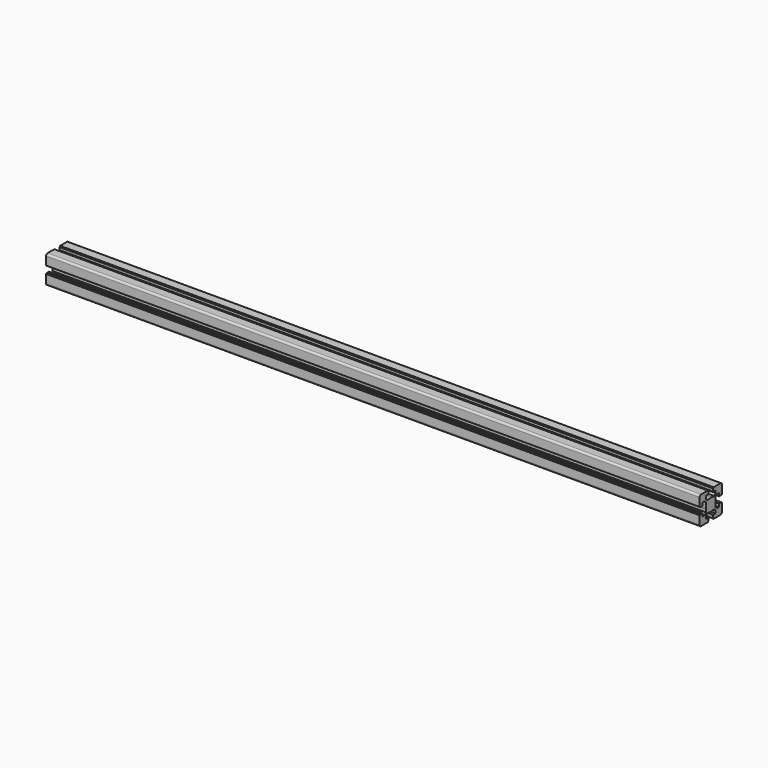
from build123d import *

# Parameters (mm, degrees)
F1_DEPTH = 1054.1


with BuildPart() as f1:
    # F0 (on Right) → F1 (new body)
    with BuildSketch(Plane.YZ):
        with BuildLine():
            Line((-20.088481, -9.788837), (-20.088481, -10.288837))
            Line((-20.088481, -10.288837), (-21.28859, -10.288837))
            ThreePointArc((-21.28859, -10.288837), (-21.500722, -10.376705), (-21.58859, -10.588837))
            Line((-21.58859, -10.588837), (-21.58859, -23.988949))
            ThreePointArc((-21.58859, -23.988949), (-20.70991, -26.11027), (-18.58859, -26.988949))
            Line((-18.58859, -26.988949), (-5.188544, -26.988949))
            ThreePointArc((-5.188544, -26.988949), (-4.976411, -26.901081), (-4.888544, -26.688949))
            Line((-4.888544, -26.688949), (-4.888544, -25.488841))
            Line((-4.888544, -25.488841), (-4.388544, -25.488841))
            ThreePointArc((-4.388544, -25.488841), (-4.176411, -25.400973), (-4.088544, -25.188841))
            Line((-4.088544, -25.188841), (-4.088544, -21.288841))
            ThreePointArc((-4.088544, -21.288841), (-4.176411, -21.076709), (-4.388544, -20.988841))
            Line((-4.388544, -20.988841), (-9.138663, -20.988841))
            Line((-9.138663, -20.988841), (-9.138663, -16.881665))
            Line((-9.138663, -16.881665), (-6.245729, -13.988731))
            Line((-6.245729, -13.988731), (-2.211433, -13.988731))
            ThreePointArc((-2.211433, -13.988731), (-0.669869, -14.363044), (0.91149, -14.48887))
            Line((0.91149, -14.48887), (0.91149, -4.48887))
            Line((0.91149, -4.48887), (-9.08851, -4.48887))
            ThreePointArc((-9.08851, -4.48887), (-8.962684, -6.070229), (-8.588371, -7.611793))
            Line((-8.588371, -7.611793), (-8.588371, -11.646022))
            Line((-8.588371, -11.646022), (-11.481305, -14.538956))
            Line((-11.481305, -14.538956), (-15.588481, -14.538956))
            Line((-15.588481, -14.538956), (-15.588481, -9.788837))
            ThreePointArc((-15.588481, -9.788837), (-15.676349, -9.576705), (-15.888481, -9.488837))
            Line((-15.888481, -9.488837), (-19.788481, -9.488837))
            ThreePointArc((-19.788481, -9.488837), (-20.000613, -9.576705), (-20.088481, -9.788837))
        make_face()
        with BuildLine():
            ThreePointArc((-8.588371, -1.365947), (-8.962684, -2.907511), (-9.08851, -4.48887))
            Line((-9.08851, -4.48887), (0.91149, -4.48887))
            Line((0.91149, -4.48887), (0.91149, 5.51113))
            ThreePointArc((0.91149, 5.51113), (-0.669869, 5.385303), (-2.211433, 5.010991))
            Line((-2.211433, 5.010991), (-6.245729, 5.010991))
            Line((-6.245729, 5.010991), (-9.138663, 7.903925))
            Line((-9.138663, 7.903925), (-9.138663, 12.011101))
            Line((-9.138663, 12.011101), (-4.388544, 12.011101))
            ThreePointArc((-4.388544, 12.011101), (-4.176411, 12.098969), (-4.088544, 12.311101))
            Line((-4.088544, 12.311101), (-4.088544, 16.211101))
            ThreePointArc((-4.088544, 16.211101), (-4.176411, 16.423233), (-4.388544, 16.511101))
            Line((-4.388544, 16.511101), (-4.888544, 16.511101))
            Line((-4.888544, 16.511101), (-4.888544, 17.711209))
            ThreePointArc((-4.888544, 17.711209), (-4.976411, 17.923341), (-5.188544, 18.011209))
            Line((-5.188544, 18.011209), (-18.58859, 18.011209))
            ThreePointArc((-18.58859, 18.011209), (-20.70991, 17.13253), (-21.58859, 15.011209))
            Line((-21.58859, 15.011209), (-21.58859, 1.611097))
            ThreePointArc((-21.58859, 1.611097), (-21.500722, 1.398965), (-21.28859, 1.311097))
            Line((-21.28859, 1.311097), (-20.088481, 1.311097))
            Line((-20.088481, 1.311097), (-20.088481, 0.811097))
            ThreePointArc((-20.088481, 0.811097), (-20.000613, 0.598965), (-19.788481, 0.511097))
            Line((-19.788481, 0.511097), (-15.888481, 0.511097))
            ThreePointArc((-15.888481, 0.511097), (-15.676349, 0.598965), (-15.588481, 0.811097))
            Line((-15.588481, 0.811097), (-15.588481, 5.561216))
            Line((-15.588481, 5.561216), (-11.481305, 5.561216))
            Line((-11.481305, 5.561216), (-8.588371, 2.668282))
            Line((-8.588371, 2.668282), (-8.588371, -1.365947))
        make_face()
        with BuildLine():
            Line((0.91149, 5.51113), (0.91149, -4.48887))
            Line((0.91149, -4.48887), (10.91149, -4.48887))
            ThreePointArc((10.91149, -4.48887), (10.785663, -2.907511), (10.41135, -1.365947))
            Line((10.41135, -1.365947), (10.41135, 2.668282))
            Line((10.41135, 2.668282), (13.304285, 5.561216))
            Line((13.304285, 5.561216), (14.016842, 5.561216))
            Line((14.016842, 5.561216), (17.41146, 5.561216))
            Line((17.41146, 5.561216), (17.41146, 0.811097))
            ThreePointArc((17.41146, 0.811097), (17.499328, 0.598965), (17.71146, 0.511097))
            Line((17.71146, 0.511097), (21.61146, 0.511097))
            ThreePointArc((21.61146, 0.511097), (21.823593, 0.598965), (21.91146, 0.811097))
            Line((21.91146, 0.811097), (21.91146, 1.311097))
            Line((21.91146, 1.311097), (23.111569, 1.311097))
            ThreePointArc((23.111569, 1.311097), (23.323701, 1.398965), (23.411569, 1.611097))
            Line((23.411569, 1.611097), (23.411569, 15.011209))
            ThreePointArc((23.411569, 15.011209), (22.532889, 17.13253), (20.411569, 18.011209))
            Line((20.411569, 18.011209), (7.011523, 18.011209))
            ThreePointArc((7.011523, 18.011209), (6.799391, 17.923341), (6.711523, 17.711209))
            Line((6.711523, 17.711209), (6.711523, 16.511101))
            Line((6.711523, 16.511101), (6.211523, 16.511101))
            ThreePointArc((6.211523, 16.511101), (5.999391, 16.423233), (5.911523, 16.211101))
            Line((5.911523, 16.211101), (5.911523, 12.311101))
            ThreePointArc((5.911523, 12.311101), (5.999391, 12.098969), (6.211523, 12.011101))
            Line((6.211523, 12.011101), (10.961642, 12.011101))
            Line((10.961642, 12.011101), (10.961642, 7.903925))
            Line((10.961642, 7.903925), (8.068708, 5.010991))
            Line((8.068708, 5.010991), (4.034413, 5.010991))
            ThreePointArc((4.034413, 5.010991), (2.492849, 5.385303), (0.91149, 5.51113))
        make_face()
        with BuildLine():
            Line((10.91149, -4.48887), (0.91149, -4.48887))
            Line((0.91149, -4.48887), (0.91149, -14.48887))
            ThreePointArc((0.91149, -14.48887), (2.492849, -14.363044), (4.034413, -13.988731))
            Line((4.034413, -13.988731), (8.068708, -13.988731))
            Line((8.068708, -13.988731), (10.961642, -16.881665))
            Line((10.961642, -16.881665), (10.961642, -20.988841))
            Line((10.961642, -20.988841), (6.211523, -20.988841))
            ThreePointArc((6.211523, -20.988841), (5.999391, -21.076709), (5.911523, -21.288841))
            Line((5.911523, -21.288841), (5.911523, -25.188841))
            ThreePointArc((5.911523, -25.188841), (5.999391, -25.400973), (6.211523, -25.488841))
            Line((6.211523, -25.488841), (6.711523, -25.488841))
            Line((6.711523, -25.488841), (6.711523, -26.688949))
            ThreePointArc((6.711523, -26.688949), (6.799391, -26.901081), (7.011523, -26.988949))
            Line((7.011523, -26.988949), (20.411569, -26.988949))
            ThreePointArc((20.411569, -26.988949), (22.532889, -26.11027), (23.411569, -23.988949))
            Line((23.411569, -23.988949), (23.411569, -10.588837))
            ThreePointArc((23.411569, -10.588837), (23.323701, -10.376705), (23.111569, -10.288837))
            Line((23.111569, -10.288837), (21.91146, -10.288837))
            Line((21.91146, -10.288837), (21.91146, -9.788837))
            ThreePointArc((21.91146, -9.788837), (21.823593, -9.576705), (21.61146, -9.488837))
            Line((21.61146, -9.488837), (17.71146, -9.488837))
            ThreePointArc((17.71146, -9.488837), (17.499328, -9.576705), (17.41146, -9.788837))
            Line((17.41146, -9.788837), (17.41146, -14.538956))
            Line((17.41146, -14.538956), (13.304285, -14.538956))
            Line((13.304285, -14.538956), (10.41135, -11.646022))
            Line((10.41135, -11.646022), (10.41135, -7.611793))
            ThreePointArc((10.41135, -7.611793), (10.785663, -6.070229), (10.91149, -4.48887))
        make_face()
    extrude(amount=F1_DEPTH)


solid = f1.part
